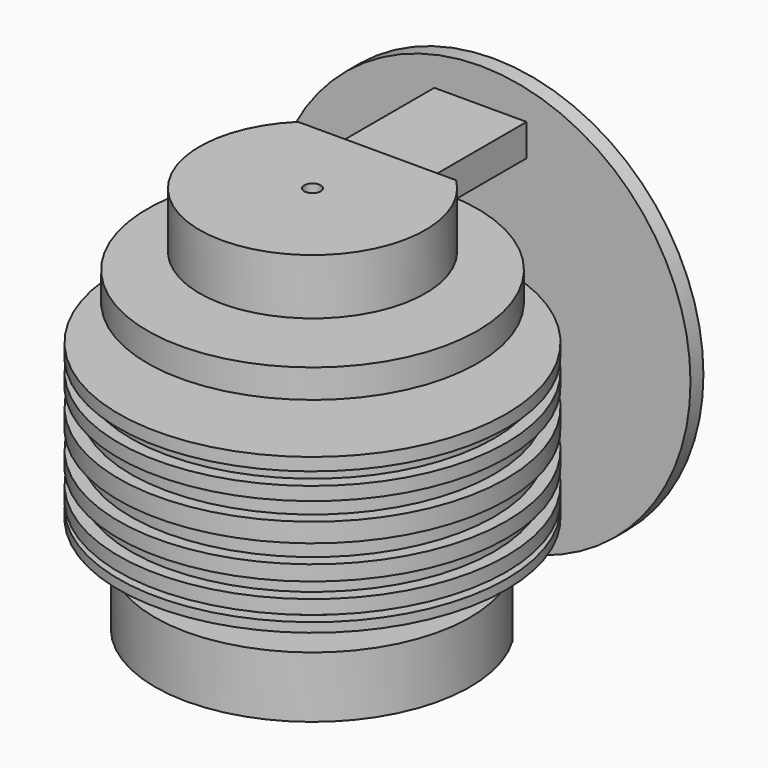
from build123d import *

# Parameters (mm, degrees)
F2_W     = 95.933378
F2_H     = 103.010424
F3_DEPTH = 127
F4_W     = 72.550886
F4_H     = 25.166716
F5_DEPTH = 101.6
F6_R     = 165.1
F7_DEPTH = 12.7


with BuildPart() as f1:
    # F0 (on Front) → F1 (revolve)
    with BuildSketch(Plane.XZ):
        Polygon((88.794723, 147.411454), (6.476902, 147.411454), (6.476902, -157.388546), (123.8399, -157.388546), (123.8399, -109.347023), (31.267736, -109.347023), (31.267736, -80.914147), (152.272776, -80.914147), (152.272776, -73.552802), (142.721742, -73.552802), (142.721742, -68.588875), (152.272776, -68.588875), (152.272776, -57.600658), (142.721742, -57.600658), (142.721742, -45.443479), (152.272776, -45.443479), (152.272776, -33.520091), (142.721742, -33.520091), (142.721742, -19.024992), (152.272776, -19.024992), (152.272776, -4.062309), (142.721742, -4.062309), (142.721742, 10.198998), (152.272776, 10.198998), (152.272776, 20.719634), (142.721742, 20.719634), (142.721742, 30.772688), (152.272776, 30.772688), (152.272776, 40.75212), (31.267736, 40.75212), (31.267736, 68.523772), (129.790947, 68.523772), (129.790947, 91.005571), (53.749543, 91.005571), (53.749543, 103.568949), (88.794723, 103.568949), align=None)
    revolve(axis=Axis((0, 0, -4.988546), (0, 0, -1)))

    # F2 (on Right) → F3 (cut, symmetric)
    with BuildSketch(Plane.YZ):
        with Locations((111.389175, 147.290256)):
            Rectangle(F2_W, F2_H)
        Polygon((159.355864, -96.834429), (63.422486, -96.834429), (63.422486, -198.305756), (159.355864, -196.701795), align=None)
    extrude(amount=F3_DEPTH, both=True, mode=Mode.SUBTRACT)

    # F4 (on face) → F5 (join)
    with BuildSketch(Plane(origin=(0, 63.422486, 0), x_dir=(-1, 0, 0), z_dir=(0, 1, 0))):
        with Locations((0, 125.490201)):
            Rectangle(F4_W, F4_H)
        with Locations((0, -125.490201)):
            Rectangle(F4_W, F4_H)
    extrude(amount=F5_DEPTH)

    # F6 (on face) → F7 (join)
    with BuildSketch(Plane(origin=(0, 165.022486, 0), x_dir=(-1, 0, 0), z_dir=(0, 1, 0))):
        Circle(F6_R)
    extrude(amount=F7_DEPTH)


solid = f1.part
